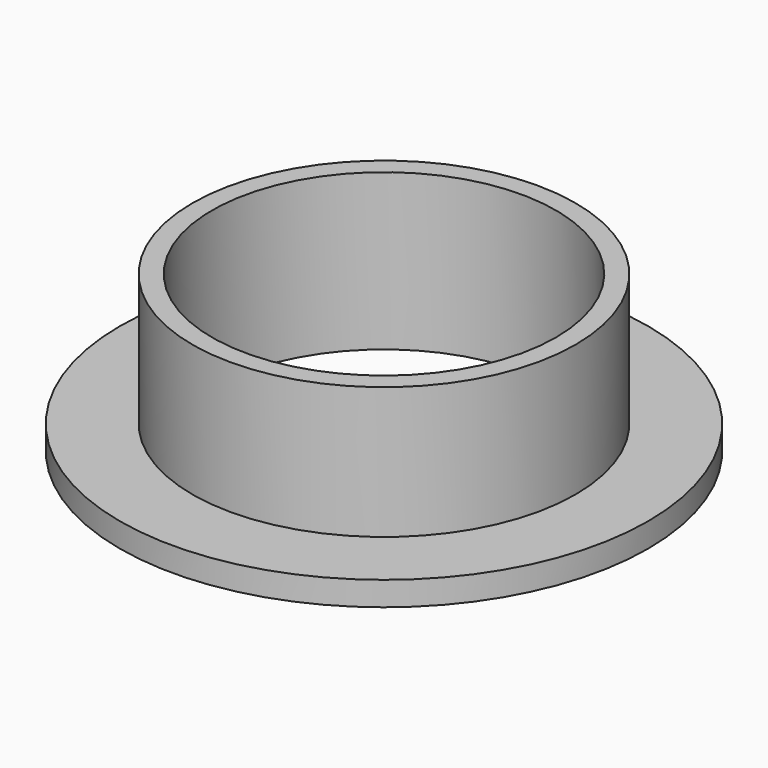
from build123d import *

# Parameters (mm, degrees)
SKETCH_R        = 12.5875
PAD_DEPTH       = 10.25
SKETCH005_R     = 17.35
PAD002_DEPTH    = 1.5875
SKETCH004_R     = 11.3
POCKET002_DEPTH = 10.251


with BuildPart() as part:
    # Sketch → Pad (new body)
    with BuildSketch(Plane.XY):
        Circle(SKETCH_R)
    extrude(amount=PAD_DEPTH)

    # Sketch005 (on Face2 of Pad) → Pad002 (new body)
    with BuildSketch(Plane(origin=(0, 0, 0), x_dir=(1, 0, 0), z_dir=(0, 0, -1))):
        Circle(SKETCH005_R)
    extrude(amount=-PAD002_DEPTH)

    # Sketch004 (on Face3 of Pad) → Pocket002 (cut, through all)
    with BuildSketch(Plane.XY.offset(10.25)):
        Circle(SKETCH004_R)
    extrude(amount=-POCKET002_DEPTH, mode=Mode.SUBTRACT)


solid = part.part
